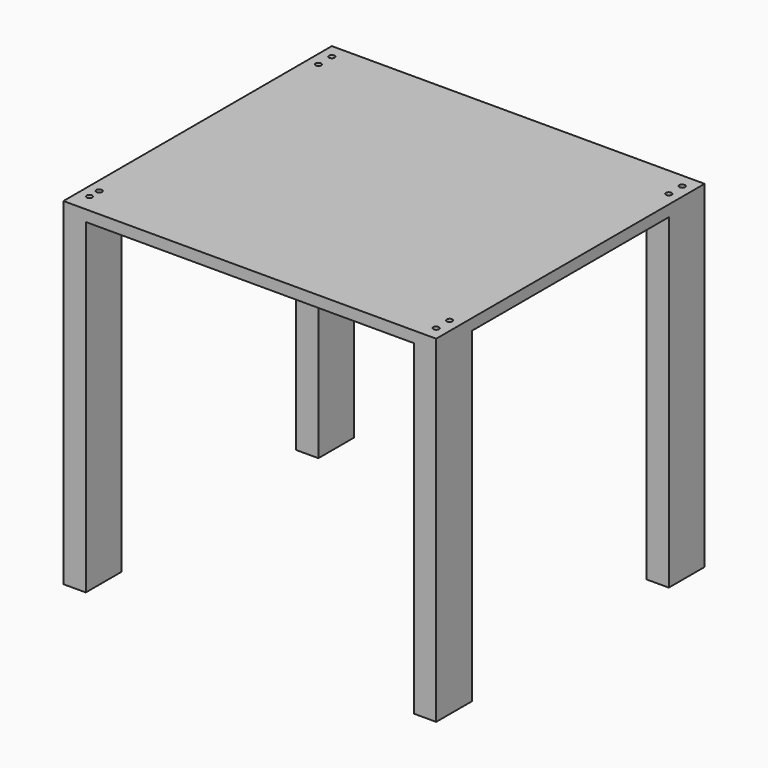
from build123d import *

# Parameters (mm, degrees)
F0_W     = 400
F0_H     = 360
F0_R     = 3
F2_DEPTH = 12
F1_W     = 24
F1_H     = 48
F3_DEPTH = 350


with BuildPart() as f2:
    # F0 (on Top) → F2 (new body)
    with BuildSketch(Plane.XY):
        with Locations((-30.968213, -48.251697)):
            Rectangle(F0_W, F0_H)
        with Locations((-218.968213, -208.251697)):
            Circle(F0_R, mode=Mode.SUBTRACT)
        with Locations((-218.968213, -195.251697)):
            Circle(F0_R, mode=Mode.SUBTRACT)
        with Locations((157.031787, -213.251697)):
            Circle(F0_R, mode=Mode.SUBTRACT)
        with Locations((157.031787, -195.251697)):
            Circle(F0_R, mode=Mode.SUBTRACT)
        with Locations((-218.968213, 98.748303)):
            Circle(F0_R, mode=Mode.SUBTRACT)
        with Locations((-218.968213, 116.748303)):
            Circle(F0_R, mode=Mode.SUBTRACT)
        with Locations((157.031787, 98.748303)):
            Circle(F0_R, mode=Mode.SUBTRACT)
        with Locations((157.031787, 116.748303)):
            Circle(F0_R, mode=Mode.SUBTRACT)
    extrude(amount=F2_DEPTH)

    # F1 (on Top) → F3 (join)
    with BuildSketch(Plane.XY):
        with Locations((-218.968213, -204.251697)):
            Rectangle(F1_W, F1_H)
        with Locations((-218.968213, 107.748303)):
            Rectangle(F1_W, F1_H)
        with Locations((157.031787, 107.748303)):
            Rectangle(F1_W, F1_H)
        with Locations((157.031787, -204.251697)):
            Rectangle(F1_W, F1_H)
    extrude(amount=-F3_DEPTH)


solid = f2.part
